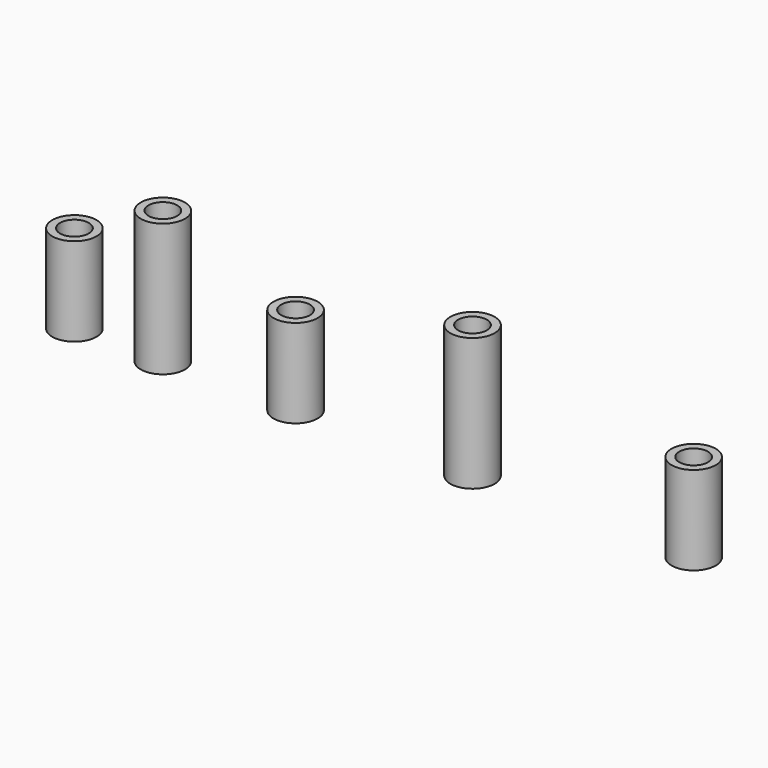
from build123d import *

# Parameters (mm, degrees)
F0_R     = 2.5
F0_R_2   = 1.625
F1_DEPTH = 10
F2_DEPTH = 15


with BuildPart() as f1:
    # F0 (on Top) → F1 (new body)
    with BuildSketch(Plane.XY):
        Circle(F0_R)
        Circle(F0_R_2, mode=Mode.SUBTRACT)
        with Locations((25, 0)):
            Circle(F0_R)
        with Locations((25, 0)):
            Circle(F0_R_2, mode=Mode.SUBTRACT)
        with Locations((70, 0)):
            Circle(F0_R)
        with Locations((70, 0)):
            Circle(F0_R_2, mode=Mode.SUBTRACT)
    extrude(amount=F1_DEPTH)


with BuildPart() as f2:
    # F0 (on Top) → F2 (new body)
    with BuildSketch(Plane.XY):
        with Locations((10, 0)):
            Circle(F0_R)
        with Locations((10, 0)):
            Circle(F0_R_2, mode=Mode.SUBTRACT)
        with Locations((45, 0)):
            Circle(F0_R)
        with Locations((45, 0)):
            Circle(F0_R_2, mode=Mode.SUBTRACT)
    extrude(amount=F2_DEPTH)


solid = Compound([f1.part, f2.part])
